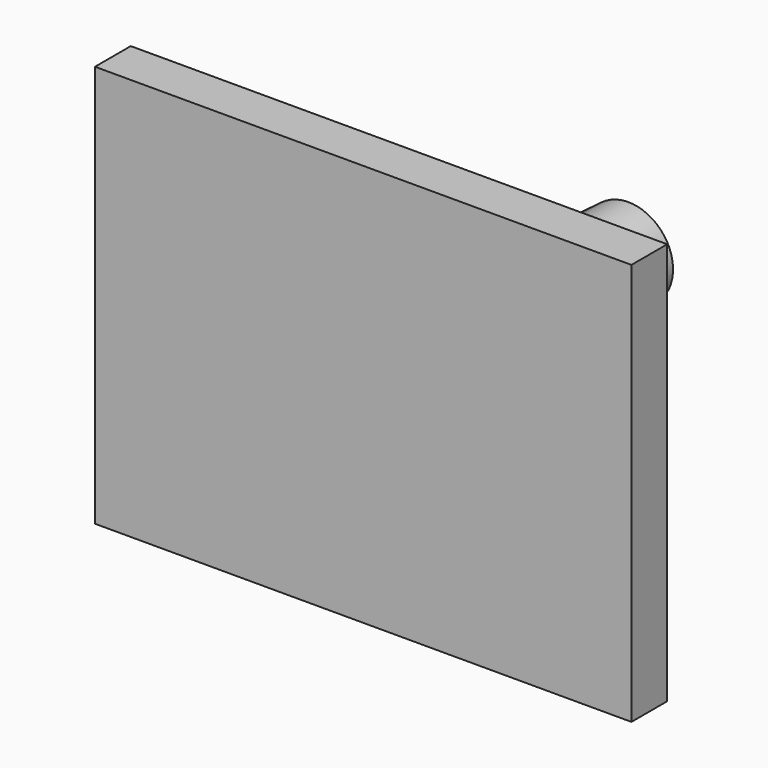
from build123d import *

# Parameters (mm, degrees)
F0_W     = 152.4
F0_H     = 114.3
F1_DEPTH = 12.7
F3_DEPTH = 38.1


with BuildPart() as f1:
    # F0 (on Front) → F1 (new body)
    with BuildSketch(Plane.XZ):
        Rectangle(F0_W, F0_H)
    extrude(amount=F1_DEPTH)

    # F2 (on face) → F3 (join)
    with BuildSketch(Plane(origin=(0, 0, 0), x_dir=(-1, 0, 0), z_dir=(0, 1, 0))):
        with BuildLine():
            Line((-42.303127, 15.852345), (2.400873, -17.675655))
            ThreePointArc((2.400873, -17.675655), (20.180873, -15.135655), (17.640873, 2.644345))
            Line((17.640873, 2.644345), (-27.063127, 36.172345))
            ThreePointArc((-27.063127, 36.172345), (-44.843127, 33.632345), (-42.303127, 15.852345))
        make_face()
    extrude(amount=F3_DEPTH)


solid = f1.part
